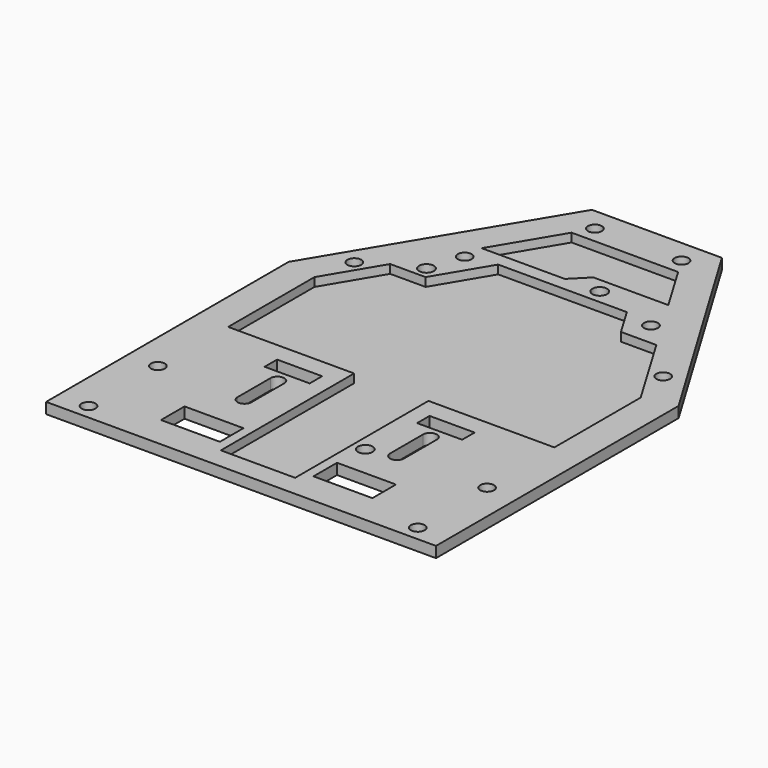
from build123d import *

# Parameters (mm, degrees)
PAD_DEPTH       = 2.5
SKETCH001_R     = 1.6
SKETCH001_W     = 13.6
SKETCH001_H     = 6.8
SKETCH001_W_2   = 10.4
SKETCH001_H_2   = 3.6
POCKET_DEPTH    = 5
SKETCH002_R     = 1.7
POCKET001_DEPTH = 5
SKETCH004_R     = 1.6
POCKET002_DEPTH = 5
POCKET003_DEPTH = 2


with BuildPart() as part:
    # Sketch → Pad (new body)
    with BuildSketch(Plane.XY):
        Polygon((-45, 0), (45, 0), (45, 70), (15, 120), (-15, 120), (-45, 70), align=None)
    extrude(amount=PAD_DEPTH)

    # Sketch001 (on Face8 of Pad) → Pocket (cut)
    with BuildSketch(Plane.XY.offset(2.5)):
        with Locations((38, 3.5)):
            Circle(SKETCH001_R)
        with Locations((38, 23.5)):
            Circle(SKETCH001_R)
        with Locations((-38, 3.5)):
            Circle(SKETCH001_R)
        with Locations((-38, 23.5)):
            Circle(SKETCH001_R)
        with BuildLine():
            ThreePointArc((-19.2, 23), (-17.6, 21.4), (-16, 23))
            Line((-16, 23), (-16, 32.5))
            ThreePointArc((-16, 32.5), (-17.6, 34.1), (-19.2, 32.5))
            Line((-19.2, 23), (-19.2, 32.5))
        make_face()
        with BuildLine():
            ThreePointArc((19.2, 32.5), (17.6, 34.1), (16, 32.5))
            Line((16, 32.5), (16, 23))
            ThreePointArc((16, 23), (17.6, 21.4), (19.2, 23))
            Line((19.2, 32.5), (19.2, 23))
        make_face()
        with Locations((-17.6, 10.8)):
            Rectangle(SKETCH001_W, SKETCH001_H)
        with Locations((17.6, 10.8)):
            Rectangle(SKETCH001_W, SKETCH001_H)
        with Locations((17.6, 37.1)):
            Rectangle(SKETCH001_W_2, SKETCH001_H_2)
        with Locations((-17.6, 37.1)):
            Rectangle(SKETCH001_W_2, SKETCH001_H_2)
    extrude(amount=-POCKET_DEPTH, mode=Mode.SUBTRACT)

    # Sketch002 (on Face5 of Pocket) → Pocket001 (cut)
    with BuildSketch(Plane.XY.offset(2.5)):
        with Locations((6, 96)):
            Circle(SKETCH002_R)
        with Locations((-24, 83.5)):
            Circle(SKETCH002_R)
        with Locations((11.5, 21.5)):
            Circle(SKETCH002_R)
    extrude(amount=-POCKET001_DEPTH, mode=Mode.SUBTRACT)

    # Sketch004 (on Face5 of Pocket001) → Pocket002 (cut)
    with BuildSketch(Plane.XY.offset(2.5)):
        with Locations((10, 114.6)):
            Circle(SKETCH004_R)
        with Locations((-10, 114.6)):
            Circle(SKETCH004_R)
        with Locations((21.5, 91.3880009298)):
            Circle(SKETCH004_R)
        with Locations((35.6421356237, 77.2458653061)):
            Circle(SKETCH004_R)
        with Locations((-21.5, 91.3880009298)):
            Circle(SKETCH004_R)
        with Locations((-35.6421356237, 77.2458653061)):
            Circle(SKETCH004_R)
    extrude(amount=-POCKET002_DEPTH, mode=Mode.SUBTRACT)

    # Sketch003 (on Face5 of Pocket002) → Pocket003 (cut)
    with BuildSketch(Plane.XY.offset(2.5)):
        Polygon((-37.6466903558, 43.3474069665), (-8.5768340117, 43.3474069665), (-8.5768340117, 4.893821), (8.5768340117, 4.893821), (8.5768340117, 43.3474069665), (37.6466903558, 43.3474069665), (37.6466903558, 68.2449686275), (27.0264066989, 86.0525109264), (18.8520822966, 86.0525109264), (14.8551351559, 92.7543851488), (-14.8551351559, 92.7543851488), (-22.0103766194, 80.7568463697), (-30.1847010216, 80.7568463697), (-37.6466903558, 68.2449686275), align=None)
        Polygon((-21.162924581, 95.8840944515), (-1.9676886795, 95.8840944515), (1.694907, 99.5545331507), (18.973902678, 99.5545331507), (12.2977542374, 110.7487535303), (-12.2977542374, 110.7487535303), align=None)
    extrude(amount=-POCKET003_DEPTH, mode=Mode.SUBTRACT)


solid = part.part
